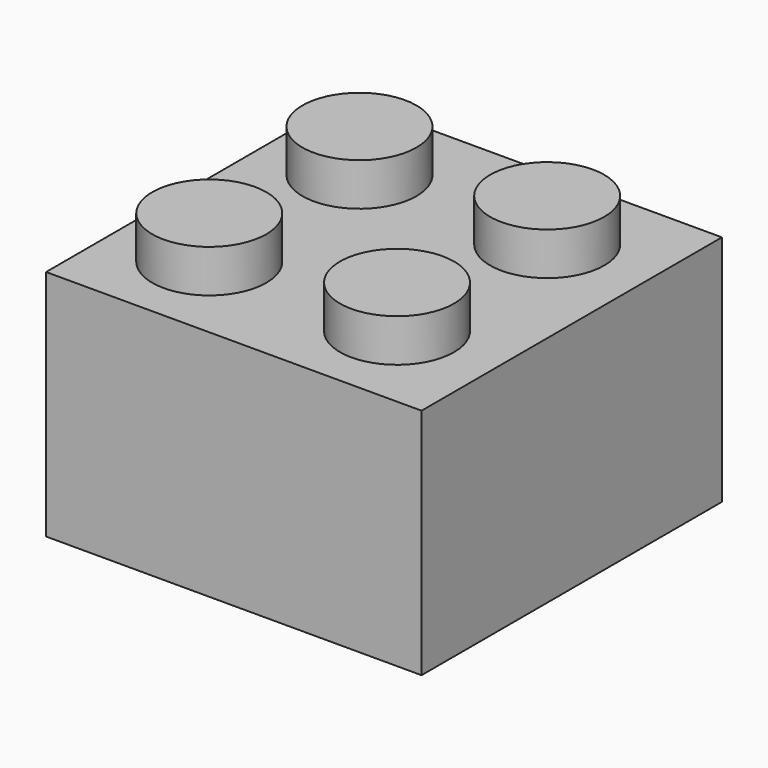
from build123d import *

# Parameters (mm, degrees)
F0_W     = 15.8
F0_H     = 15.8
F1_DEPTH = 9.8
F2_R     = 2.4
F3_DEPTH = 1.8
F4_W     = 13.4
F4_H     = 13.4
F4_R     = 2.5
F4_R_2   = 1.75
F5_DEPTH = 8.9


with BuildPart() as f1:
    # F0 (on Top) → F1 (new body)
    with BuildSketch(Plane.XY):
        Rectangle(F0_W, F0_H)
    extrude(amount=F1_DEPTH)

    # F2 (on face) → F3 (join)
    with BuildSketch(Plane.XY.offset(9.8)):
        with Locations((-4.167743, 3.919162)):
            Circle(F2_R)
        with Locations((3.732257, 3.919162)):
            Circle(F2_R)
        with Locations((3.732257, -3.980838)):
            Circle(F2_R)
        with Locations((-4.167743, -3.980838)):
            Circle(F2_R)
    extrude(amount=F3_DEPTH)

    # F4 (on face) → F5 (cut)
    with BuildSketch(Plane(origin=(0, 0, 0), x_dir=(1, 0, 0), z_dir=(0, 0, -1))):
        Rectangle(F4_W, F4_H)
        Circle(F4_R, mode=Mode.SUBTRACT)
        Circle(F4_R_2)
    extrude(amount=-F5_DEPTH, mode=Mode.SUBTRACT)


solid = f1.part
